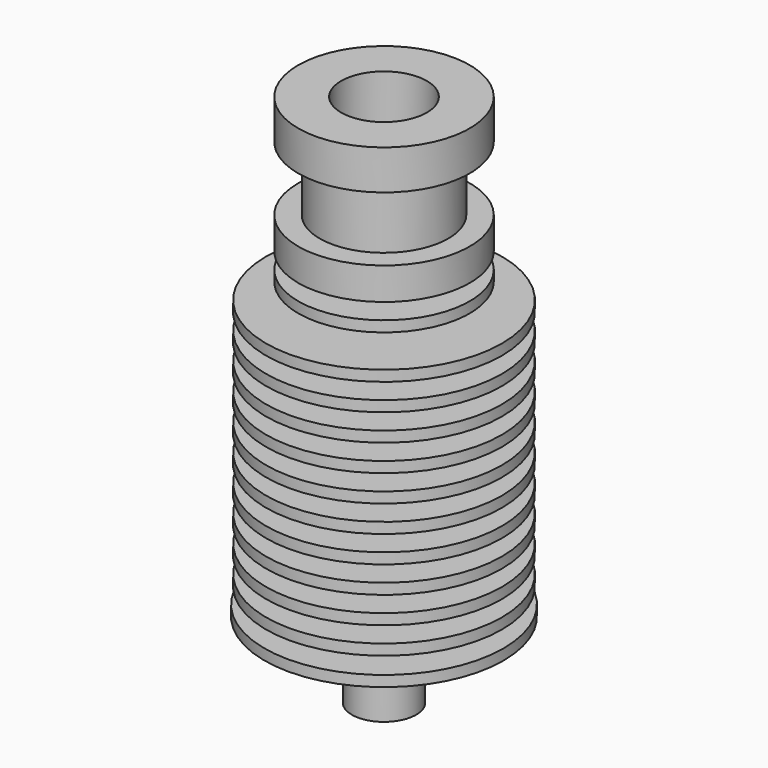
from build123d import *

# Parameters (mm, degrees)
F0_W    = 6.25
F0_H    = 1.5
F0_W_2  = 6.084906
F0_W_3  = 5.919811
F0_W_4  = 5.754717
F0_W_5  = 5.589623
F0_W_6  = 5.424528
F0_W_7  = 5.259434
F0_W_8  = 5.09434
F0_W_9  = 4.929245
F0_W_10 = 4.764151
F0_W_11 = 4.5
F0_H_2  = 1


with BuildPart() as f1:
    # F0 (on Front) → F1 (revolve)
    with BuildSketch(Plane.XZ):
        Polygon((-11.15, 0), (0, 0), (0, 1), (-6.25, 1), (-11.15, 1), align=None)
        with Locations((-3.125, 1.75)):
            Rectangle(F0_W, F0_H)
        Polygon((-6.25, 2.5), (0, 2.5), (0, 3.5), (-6.084906, 3.5), (-11, 3.5), (-11, 2.5), align=None)
        with Locations((-3.042453, 4.25)):
            Rectangle(F0_W_2, F0_H)
        Polygon((-6.084906, 5), (0, 5), (0, 6), (-5.919811, 6), (-11, 6), (-11, 5), align=None)
        with Locations((-2.959906, 6.75)):
            Rectangle(F0_W_3, F0_H)
        Polygon((-5.919811, 7.5), (0, 7.5), (0, 8.5), (-5.754717, 8.5), (-11, 8.5), (-11, 7.5), align=None)
        with Locations((-2.877358, 9.25)):
            Rectangle(F0_W_4, F0_H)
        Polygon((-5.754717, 10), (0, 10), (0, 11), (-5.589623, 11), (-11, 11), (-11, 10), align=None)
        with Locations((-2.794811, 11.75)):
            Rectangle(F0_W_5, F0_H)
        Polygon((-5.589623, 12.5), (0, 12.5), (0, 13.5), (-5.424528, 13.5), (-11, 13.5), (-11, 12.5), align=None)
        with Locations((-2.712264, 14.25)):
            Rectangle(F0_W_6, F0_H)
        Polygon((-5.424528, 15), (0, 15), (0, 16), (-5.259434, 16), (-11, 16), (-11, 15), align=None)
        with Locations((-2.629717, 16.75)):
            Rectangle(F0_W_7, F0_H)
        Polygon((-5.259434, 17.5), (0, 17.5), (0, 18.5), (-5.09434, 18.5), (-11, 18.5), (-11, 17.5), align=None)
        with Locations((-2.54717, 19.25)):
            Rectangle(F0_W_8, F0_H)
        Polygon((-5.09434, 20), (0, 20), (0, 21), (-4.929245, 21), (-11, 21), (-11, 20), align=None)
        with Locations((-2.464622, 21.75)):
            Rectangle(F0_W_9, F0_H)
        Polygon((-4.929245, 22.5), (0, 22.5), (0, 23.5), (-4.764151, 23.5), (-11, 23.5), (-11, 22.5), align=None)
        with Locations((-2.382076, 24.25)):
            Rectangle(F0_W_10, F0_H)
        Polygon((-4.764151, 25), (0, 25), (0, 26), (-4.599057, 26), (-11, 26), (-11, 25), align=None)
        Polygon((-4.599057, 26), (0, 26), (0, 27.5), (-4.5, 27.5), (-4.599057, 27.5), align=None)
        with Locations((-2.25, 28)):
            Rectangle(F0_W_11, F0_H_2)
        Polygon((-8, 27.5), (-4.599057, 27.5), (-4.5, 27.5), (-4.5, 28.5), (-8, 28.5), align=None)
        with Locations((-2.25, 29.25)):
            Rectangle(F0_W_11, F0_H)
        Polygon((-4.5, 30), (0, 30), (0, 42.7), (-8, 42.7), (-8, 39), (-6, 39), (-6, 33), (-8, 33), (-8, 30), align=None)
    revolve(axis=Axis((0, 0, 21.35), (0, 0, 1)))


with BuildPart() as f3:
    # F2 (on Front) → F3 (revolve)
    with BuildSketch(Plane.XZ):
        Polygon((-3, 0), (-2.1, 0), (0, 0), (0, 42.7), (-2.1, 42.7), (-4, 42.7), (-4, 36.2), (-2.1, 35.103034), (-2.1, 15.619615), (-3, 15.1), align=None)
    revolve(axis=Axis((0, 0, 21.35), (0, 0, 1)))


with BuildPart() as f1_1:
    add(f1.part)

    # F4: cut F3
    add(f3.part, mode=Mode.SUBTRACT)


with BuildPart() as f6:
    # F5 (on Front) → F6 (revolve)
    with BuildSketch(Plane.XZ):
        Polygon((-3.5, 0), (-1.4, 0), (-1.4, -2.1), (-3, -2.1), (-3, -7.1), (-1, -7.1), (-1, 15.1), (-1.71338, 15.1), (-2.015184, 14.8), (-2.015184, 9.970692), (-3.5, 9.970692), align=None)
    revolve(axis=Axis((0, 0, -3.55), (0, 0, -1)))


solid = Compound([f1_1.part, f6.part])
